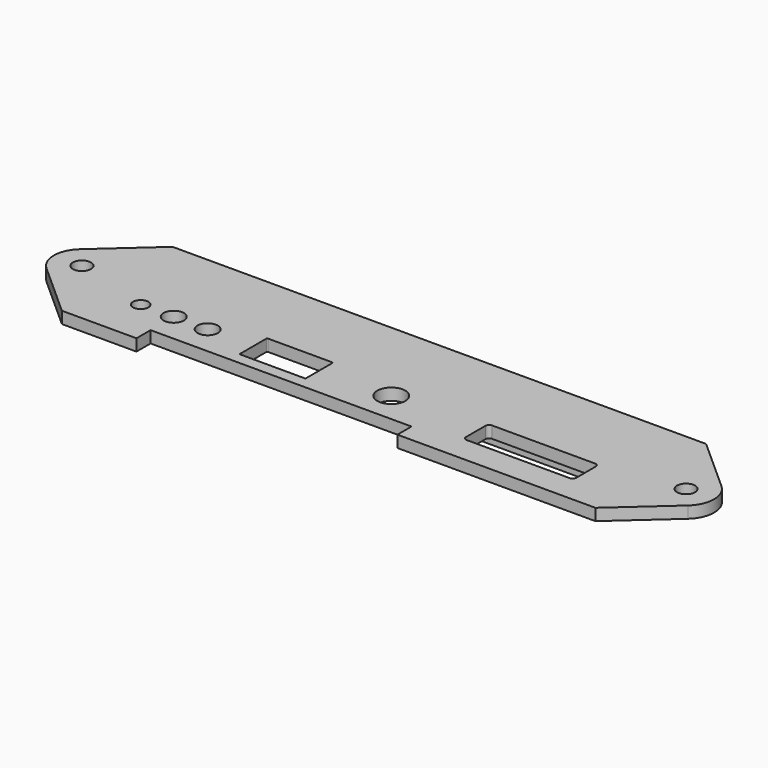
from build123d import *

# Parameters (mm, degrees)
SKETCH_R        = 2
PAD_DEPTH       = 2.6
SKETCH001_W     = 57.7
SKETCH001_H     = 3.9
POCKET_DEPTH    = 5
SKETCH002_W     = 115.6
SKETCH002_H     = 5.2
POCKET001_DEPTH = 0.2
SKETCH003_W     = 118
SKETCH003_H     = 7.6
SKETCH003_W_2   = 115.6
SKETCH003_H_2   = 5.2
PAD001_DEPTH    = 2
SKETCH004_R     = 2.25
SKETCH004_R_2   = 1.7
SKETCH004_R_3   = 3.1
POCKET002_DEPTH = 5
SKETCH005_W     = 42
SKETCH005_H     = 1.2
POCKET003_DEPTH = 2
SKETCH006_W     = 15
SKETCH006_H     = 15
POCKET004_DEPTH = 2


with BuildPart() as part:
    # Sketch → Pad (new body)
    with BuildSketch(Plane.XY):
        with BuildLine():
            ThreePointArc((-4.134472, 4.620188), (-6.2, 0), (-4.134472, -4.620188))
            Line((-4.134472, -4.620188), (7.8, -15.3))
            Line((7.8, -15.3), (125.8, -15.3))
            Line((125.8, -15.3), (137.734472, -4.620188))
            ThreePointArc((137.734472, -4.620188), (139.8, 0), (137.734472, 4.620188))
            Line((125.8, 15.3), (137.734472, 4.620188))
            Line((7.8, 15.3), (125.8, 15.3))
            Line((-4.134472, 4.620188), (7.8, 15.3))
        make_face()
        Circle(SKETCH_R, mode=Mode.SUBTRACT)
        with Locations((133.6, 0)):
            Circle(SKETCH_R, mode=Mode.SUBTRACT)
    extrude(amount=PAD_DEPTH)

    # Sketch001 (on Face12 of Pad) → Pocket (cut)
    with BuildSketch(Plane.XY.offset(2.6)):
        with Locations((53.15, -13.35)):
            Rectangle(SKETCH001_W, SKETCH001_H)
    extrude(amount=-POCKET_DEPTH, mode=Mode.SUBTRACT)

    # Sketch002 (on Face4 of Pocket) → Pocket001 (cut)
    with BuildSketch(Plane(origin=(0, 0, 0), x_dir=(1, 0, 0), z_dir=(0, 0, -1))):
        with Locations((66.8, -2.6)):
            Rectangle(SKETCH002_W, SKETCH002_H)
    extrude(amount=-POCKET001_DEPTH, mode=Mode.SUBTRACT)

    # Sketch003 (on Face4 of Pocket001) → Pad001 (join)
    with BuildSketch(Plane(origin=(0, 0, 0), x_dir=(1, 0, 0), z_dir=(0, 0, -1))):
        with Locations((66.8, -2.6)):
            Rectangle(SKETCH003_W, SKETCH003_H)
        with Locations((66.8, -2.6)):
            Rectangle(SKETCH003_W_2, SKETCH003_H_2, mode=Mode.SUBTRACT)
    extrude(amount=PAD001_DEPTH)

    # Sketch004 (on Face5 of Pad001) → Pocket002 (cut)
    with BuildSketch(Plane.XY.offset(2.6)):
        with Locations((24.3, -5)):
            Circle(SKETCH004_R)
        with Locations((31.8, -5)):
            Circle(SKETCH004_R)
        with Locations((17, -5)):
            Circle(SKETCH004_R_2)
        with Locations((72.1, -4.6)):
            Circle(SKETCH004_R_3)
        with BuildLine():
            Line((42.1, -1.2), (56.3, -1.2))
            ThreePointArc((56.5, -1.4), (56.441421, -1.258579), (56.3, -1.2))
            Line((56.5, -1.4), (56.5, -8.63))
            ThreePointArc((56.3, -8.83), (56.441421, -8.771421), (56.5, -8.63))
            Line((56.3, -8.83), (42.1, -8.83))
            ThreePointArc((41.9, -8.63), (41.958579, -8.771421), (42.1, -8.83))
            Line((41.9, -8.63), (41.9, -1.4))
            ThreePointArc((42.1, -1.2), (41.958579, -1.258579), (41.9, -1.4))
        make_face()
        with BuildLine():
            Line((92.6, -2.4), (115.4, -2.4))
            ThreePointArc((116.2, -3.2), (115.965685, -2.634315), (115.4, -2.4))
            Line((116.2, -3.2), (116.2, -8.6))
            ThreePointArc((115.4, -9.4), (115.965685, -9.165685), (116.2, -8.6))
            Line((115.4, -9.4), (92.6, -9.4))
            ThreePointArc((91.8, -8.6), (92.034315, -9.165685), (92.6, -9.4))
            Line((91.8, -8.6), (91.8, -3.2))
            ThreePointArc((92.6, -2.4), (92.034315, -2.634315), (91.8, -3.2))
        make_face()
    extrude(amount=-POCKET002_DEPTH, mode=Mode.SUBTRACT)

    # Sketch005 (on Face43 of Pocket002) → Pocket003 (cut)
    with BuildSketch(Plane(origin=(0, 0, -2), x_dir=(1, 0, 0), z_dir=(0, 0, -1))):
        with Locations((37.8, 0.6)):
            Rectangle(SKETCH005_W, SKETCH005_H)
    extrude(amount=-POCKET003_DEPTH, mode=Mode.SUBTRACT)

    # Sketch006 (on Face44 of Pocket003) → Pocket004 (cut)
    with BuildSketch(Plane(origin=(0, 0, -2), x_dir=(1, 0, 0), z_dir=(0, 0, -1))):
        with Locations((72.1, 4.6)):
            Rectangle(SKETCH006_W, SKETCH006_H)
    extrude(amount=-POCKET004_DEPTH, mode=Mode.SUBTRACT)


solid = part.part
